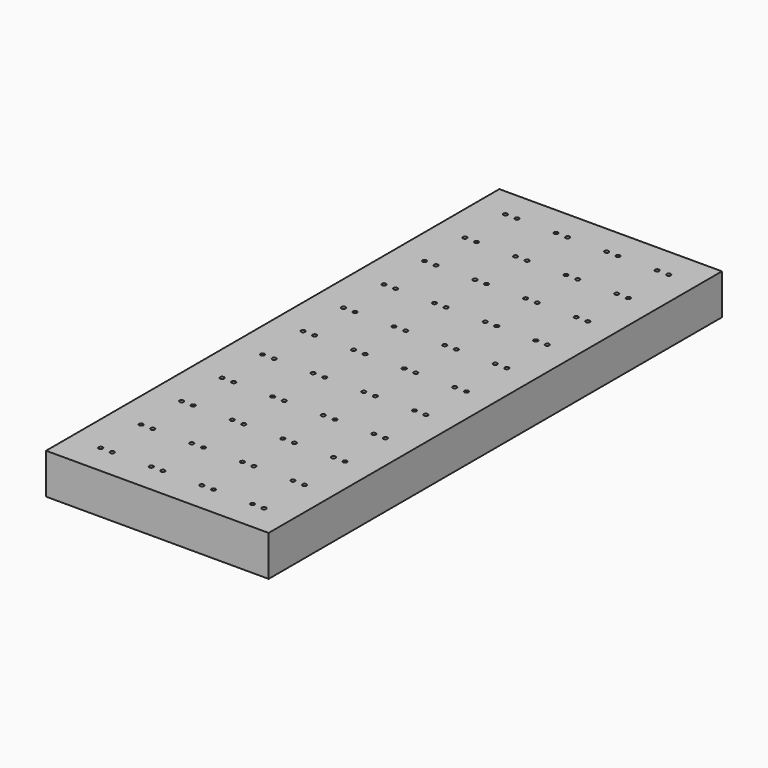
from build123d import *

# Parameters (mm, degrees)
F0_W     = 110
F0_H     = 280
F1_DEPTH = 20
F2_R     = 1
F3_DEPTH = 15


with BuildPart() as f1:
    # F0 (on Top) → F1 (new body)
    with BuildSketch(Plane.XY):
        with Locations((55, 140)):
            Rectangle(F0_W, F0_H)
    extrude(amount=F1_DEPTH)

    # F2 (on face) → F3 (cut)
    with BuildSketch(Plane.XY.offset(20)):
        with Locations((15, 15)):
            Circle(F2_R)
        with Locations((20.72, 15)):
            Circle(F2_R)
        with Locations((15, 40)):
            Circle(F2_R)
        with Locations((20.72, 40)):
            Circle(F2_R)
        with Locations((15, 65)):
            Circle(F2_R)
        with Locations((20.72, 65)):
            Circle(F2_R)
        with Locations((15, 90)):
            Circle(F2_R)
        with Locations((20.72, 90)):
            Circle(F2_R)
        with Locations((15, 115)):
            Circle(F2_R)
        with Locations((20.72, 115)):
            Circle(F2_R)
        with Locations((15, 140)):
            Circle(F2_R)
        with Locations((20.72, 140)):
            Circle(F2_R)
        with Locations((15, 165)):
            Circle(F2_R)
        with Locations((20.72, 165)):
            Circle(F2_R)
        with Locations((15, 190)):
            Circle(F2_R)
        with Locations((20.72, 190)):
            Circle(F2_R)
        with Locations((15, 215)):
            Circle(F2_R)
        with Locations((20.72, 215)):
            Circle(F2_R)
        with Locations((15, 240)):
            Circle(F2_R)
        with Locations((20.72, 240)):
            Circle(F2_R)
        with Locations((40, 15)):
            Circle(F2_R)
        with Locations((45.72, 15)):
            Circle(F2_R)
        with Locations((40, 40)):
            Circle(F2_R)
        with Locations((45.72, 40)):
            Circle(F2_R)
        with Locations((40, 65)):
            Circle(F2_R)
        with Locations((45.72, 65)):
            Circle(F2_R)
        with Locations((40, 90)):
            Circle(F2_R)
        with Locations((45.72, 90)):
            Circle(F2_R)
        with Locations((40, 115)):
            Circle(F2_R)
        with Locations((45.72, 115)):
            Circle(F2_R)
        with Locations((40, 140)):
            Circle(F2_R)
        with Locations((45.72, 140)):
            Circle(F2_R)
        with Locations((40, 165)):
            Circle(F2_R)
        with Locations((45.72, 165)):
            Circle(F2_R)
        with Locations((40, 190)):
            Circle(F2_R)
        with Locations((45.72, 190)):
            Circle(F2_R)
        with Locations((40, 215)):
            Circle(F2_R)
        with Locations((45.72, 215)):
            Circle(F2_R)
        with Locations((40, 240)):
            Circle(F2_R)
        with Locations((45.72, 240)):
            Circle(F2_R)
        with Locations((65, 15)):
            Circle(F2_R)
        with Locations((70.72, 15)):
            Circle(F2_R)
        with Locations((65, 40)):
            Circle(F2_R)
        with Locations((70.72, 40)):
            Circle(F2_R)
        with Locations((65, 65)):
            Circle(F2_R)
        with Locations((70.72, 65)):
            Circle(F2_R)
        with Locations((65, 90)):
            Circle(F2_R)
        with Locations((70.72, 90)):
            Circle(F2_R)
        with Locations((65, 115)):
            Circle(F2_R)
        with Locations((70.72, 115)):
            Circle(F2_R)
        with Locations((65, 140)):
            Circle(F2_R)
        with Locations((70.72, 140)):
            Circle(F2_R)
        with Locations((65, 165)):
            Circle(F2_R)
        with Locations((70.72, 165)):
            Circle(F2_R)
        with Locations((65, 190)):
            Circle(F2_R)
        with Locations((70.72, 190)):
            Circle(F2_R)
        with Locations((65, 215)):
            Circle(F2_R)
        with Locations((70.72, 215)):
            Circle(F2_R)
        with Locations((65, 240)):
            Circle(F2_R)
        with Locations((70.72, 240)):
            Circle(F2_R)
        with Locations((90, 15)):
            Circle(F2_R)
        with Locations((95.72, 15)):
            Circle(F2_R)
        with Locations((90, 40)):
            Circle(F2_R)
        with Locations((95.72, 40)):
            Circle(F2_R)
        with Locations((90, 65)):
            Circle(F2_R)
        with Locations((95.72, 65)):
            Circle(F2_R)
        with Locations((90, 90)):
            Circle(F2_R)
        with Locations((95.72, 90)):
            Circle(F2_R)
        with Locations((90, 115)):
            Circle(F2_R)
        with Locations((95.72, 115)):
            Circle(F2_R)
        with Locations((90, 140)):
            Circle(F2_R)
        with Locations((95.72, 140)):
            Circle(F2_R)
        with Locations((90, 165)):
            Circle(F2_R)
        with Locations((95.72, 165)):
            Circle(F2_R)
        with Locations((90, 190)):
            Circle(F2_R)
        with Locations((95.72, 190)):
            Circle(F2_R)
        with Locations((90, 215)):
            Circle(F2_R)
        with Locations((95.72, 215)):
            Circle(F2_R)
        with Locations((90, 240)):
            Circle(F2_R)
        with Locations((95.72, 240)):
            Circle(F2_R)
        with Locations((15, 265)):
            Circle(F2_R)
        with Locations((20.72, 265)):
            Circle(F2_R)
        with Locations((40, 265)):
            Circle(F2_R)
        with Locations((45.72, 265)):
            Circle(F2_R)
        with Locations((65, 265)):
            Circle(F2_R)
        with Locations((70.72, 265)):
            Circle(F2_R)
        with Locations((90, 265)):
            Circle(F2_R)
        with Locations((95.72, 265)):
            Circle(F2_R)
    extrude(amount=-F3_DEPTH, mode=Mode.SUBTRACT)


solid = f1.part
